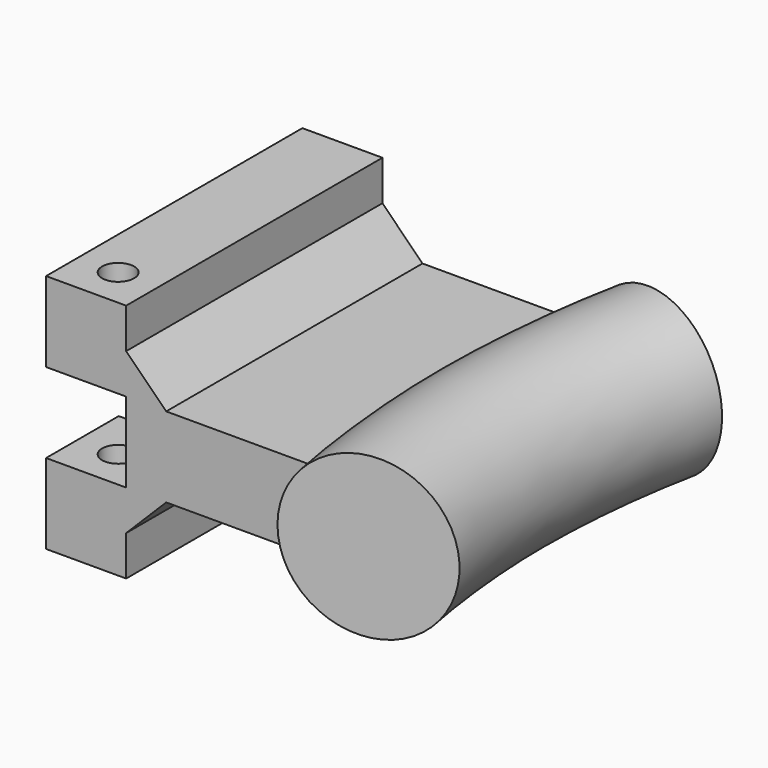
from build123d import *

# Parameters (mm, degrees)
PAD_DEPTH            = 15
PAD_DEPTH_BACK       = 15
TORUS_R              = 10
CYLINDER001_R        = 2
CYLINDER001_DEPTH    = 30
BOX002_W             = 10
BOX002_H             = 12
BOX002_DEPTH         = 10
CYLINDER_R           = 10
CYLINDER_DEPTH       = 10
CYLINDER_PITCH_ANGLE = -90
BOX_W                = 10
BOX_H                = 40
BOX_DEPTH            = 30
BOX003_W             = 10
BOX003_H             = 40
BOX003_DEPTH         = 20
CHAMFER_SIZE         = 5
BOX001_W             = 30
BOX001_H             = 40
BOX001_DEPTH         = 10


with BuildPart() as body:
    # Sketch → Pad (new body, two sides)
    with BuildSketch(Plane.XY) as pad_sk:
        Polygon((-20, 26.85317), (115, 0), (-20, -26.85317), align=None)
    extrude(amount=PAD_DEPTH)
    extrude(pad_sk.sketch, amount=-PAD_DEPTH_BACK)


with BuildPart() as rail_common:
    # Torus → Torus (revolve)
    with BuildSketch(Plane(origin=(115, 0, 0), x_dir=(1, 0, 0), z_dir=(0, -1, 0))):
        with Locations((115, 0)):
            Circle(TORUS_R)
    revolve(axis=Axis((115, 0, 0), (0, 0, 1)))

    # Common: intersect Body
    add(body.part, mode=Mode.INTERSECT)


with BuildPart() as cylinder001:
    # Cylinder001 → Cylinder001 (new body)
    with BuildSketch(Plane(origin=(-35, -15, -15), x_dir=(1, 0, 0), z_dir=(0, 0, 1))):
        Circle(CYLINDER001_R)
    extrude(amount=CYLINDER001_DEPTH)


with BuildPart() as cube002:
    # Box002 → Box002 (new body)
    with BuildSketch(Plane(origin=(-40, -20, -5), x_dir=(1, 0, 0), z_dir=(0, 0, 1))):
        with Locations((5, 6)):
            Rectangle(BOX002_W, BOX002_H)
    extrude(amount=BOX002_DEPTH)


with BuildPart() as negative_fusion:
    # Cylinder → Cylinder (new body)
    with BuildSketch(Plane.XY):
        Circle(CYLINDER_R)
    extrude(amount=CYLINDER_DEPTH)


with BuildPart() as negative_fusion_1:
    # Cylinder pitch: moved
    add(negative_fusion.part.rotate(Axis((0, 0, 0), (0, 1, 0)), CYLINDER_PITCH_ANGLE))


with BuildPart() as negative_fusion_2:
    # Cylinder placement: moved
    add(negative_fusion_1.part.moved(Location((-30, 0, 0))))

    # Fusion001: union Cylinder001, Cube002
    add(cylinder001.part)
    add(cube002.part)


with BuildPart() as cube:
    # Box → Box (new body)
    with BuildSketch(Plane(origin=(-40, -20, -15), x_dir=(1, 0, 0), z_dir=(0, 0, 1))):
        with Locations((5, 20)):
            Rectangle(BOX_W, BOX_H)
    extrude(amount=BOX_DEPTH)


with BuildPart() as chamfer_body:
    # Box003 → Box003 (new body)
    with BuildSketch(Plane(origin=(-35, -20, -10), x_dir=(1, 0, 0), z_dir=(0, 0, 1))):
        with Locations((5, 20)):
            Rectangle(BOX003_W, BOX003_H)
    extrude(amount=BOX003_DEPTH)

    # Chamfer
    chamfer_edges = [chamfer_body.edges().sort_by_distance(p)[0] for p in [
        (-25, 0, 10),
        (-25, 0, -10),
    ]]
    chamfer(chamfer_edges, length=CHAMFER_SIZE)


with BuildPart() as cut:
    # Box001 → Box001 (new body)
    with BuildSketch(Plane(origin=(-30, -20, -5), x_dir=(1, 0, 0), z_dir=(0, 0, 1))):
        with Locations((15, 20)):
            Rectangle(BOX001_W, BOX001_H)
    extrude(amount=BOX001_DEPTH)

    # Fusion: union Cube, Chamfer body
    add(cube.part)
    add(chamfer_body.part)

    # Cut: cut Negative Fusion
    add(negative_fusion_2.part, mode=Mode.SUBTRACT)


solid = Compound([rail_common.part, cut.part])
